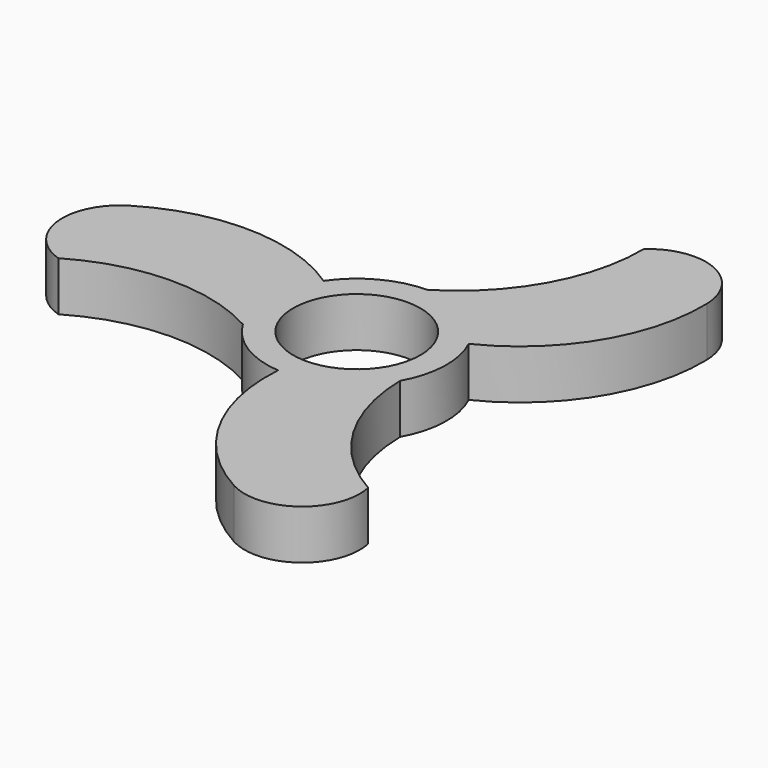
from build123d import *

# Parameters (mm, degrees)
F0_R     = 9
F1_DEPTH = 6.985


with BuildPart() as f1:
    # F0 (on Top) → F1 (new body)
    with BuildSketch(Plane.XY):
        with BuildLine():
            ThreePointArc((-36.727789, -6.873636), (-23.872015, -3.247599), (-10.914855, -6.492761))
            ThreePointArc((-10.914855, -6.492761), (-6.714864, -10.779638), (-1.015394, -12.659343))
            ThreePointArc((-1.015394, -12.659343), (2.109258, -26.917218), (12.432523, -37.236166))
            ThreePointArc((12.432523, -37.236166), (21.219695, -36.616999), (24.316638, -28.370381))
            ThreePointArc((24.316638, -28.370381), (14.748511, -19.049972), (11.080323, -6.206161))
            ThreePointArc((11.080323, -6.206161), (12.692873, -0.425423), (11.47101, 5.450315))
            ThreePointArc((11.47101, 5.450315), (22.256366, 15.285281), (26.031204, 29.384963))
            ThreePointArc((26.031204, 29.384963), (21.101404, 36.685295), (12.411151, 35.244016))
            ThreePointArc((12.411151, 35.244016), (9.123504, 22.297571), (-0.165468, 12.698922))
            ThreePointArc((-0.165468, 12.698922), (-5.978009, 11.205062), (-10.455616, 7.209029))
            ThreePointArc((-10.455616, 7.209029), (-24.365624, 11.631938), (-38.463727, 7.851202))
            ThreePointArc((-38.463727, 7.851202), (-42.321099, -0.068296), (-36.727789, -6.873636))
        make_face()
        Circle(F0_R, mode=Mode.SUBTRACT)
    extrude(amount=F1_DEPTH)


solid = f1.part
